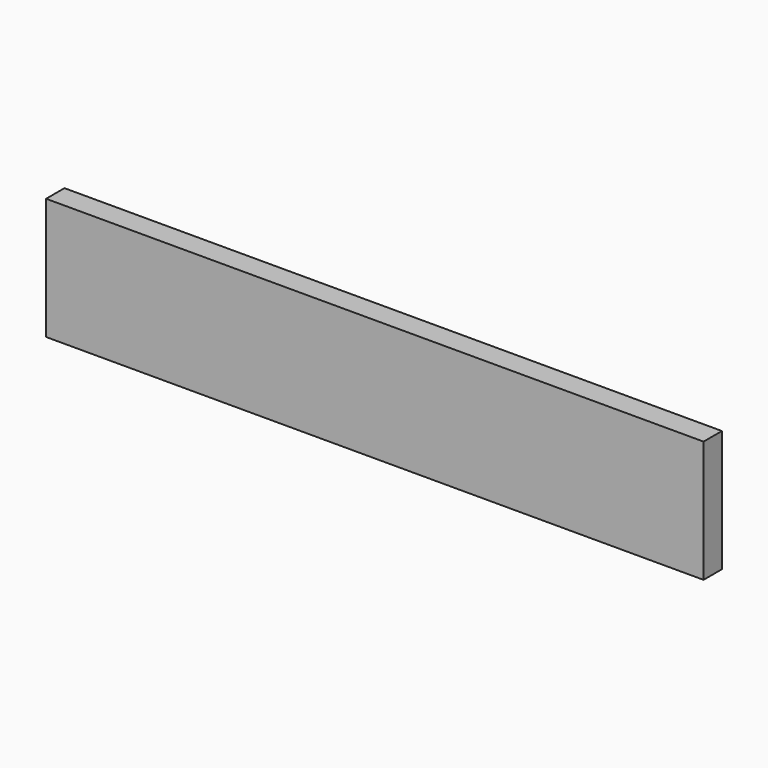
from build123d import *

# Parameters (mm, degrees)
F2_DEPTH = 10
F1_W     = 10
F1_H     = 52.600057
F3_DEPTH = 5


with BuildPart() as f2:
    # F0 (on Front) → F2 (new body)
    with BuildSketch(Plane.XZ):
        Polygon((-144.694239, 52.984145), (-144.694239, 50.167713), (-144.694239, 0), (141.52576, 0), (141.52576, 52.984145), align=None)
    extrude(amount=F2_DEPTH)

    # F1 (on face) → F3 (join)
    with BuildSketch(Plane.XZ):
        with Locations((80.999858, 26.300028)):
            Rectangle(F1_W, F1_H)
    extrude(amount=F3_DEPTH)


solid = f2.part
